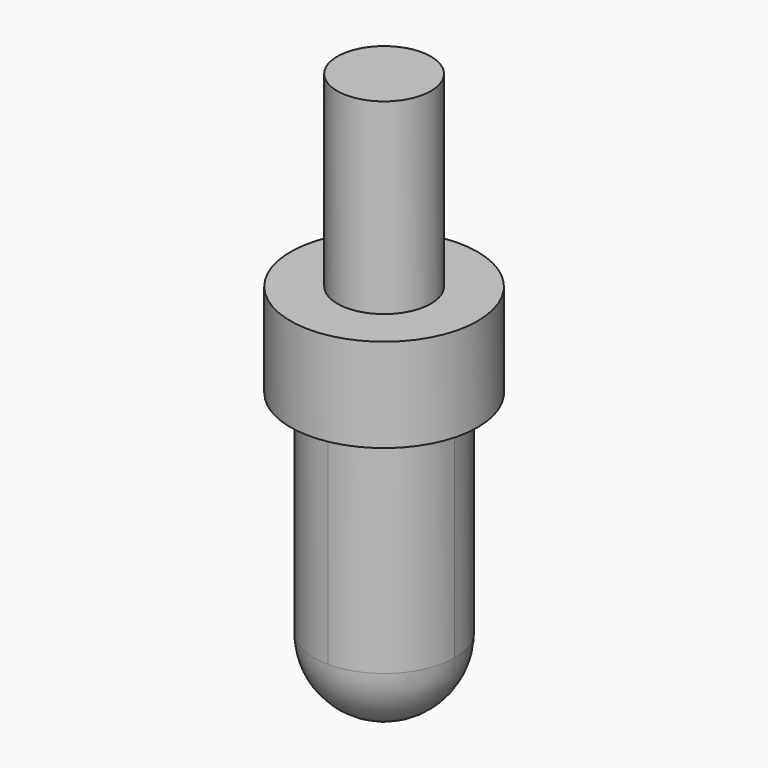
from build123d import *

# Parameters (mm, degrees)
F1_ANGLE = 180
F2_DEPTH = 2.25
F3_R     = 1
F4_DEPTH = 1
F5_R     = 0.5
F6_DEPTH = 2


with BuildPart() as f1:
    # F0 (on Top) → F1 (revolve)
    with BuildSketch(Plane.XY):
        with BuildLine():
            Line((0, -0.75), (0, 0.75))
            ThreePointArc((0, 0.75), (-0.75, 0), (0, -0.75))
        make_face()
    revolve(axis=Axis((0, 0, 0), (0, -1, 0)), revolution_arc=F1_ANGLE)

    # F0 (on Top) → F2 (join)
    with BuildSketch(Plane.XY):
        with BuildLine():
            ThreePointArc((0, -0.75), (0.53033, -0.53033), (0.75, 0))
            ThreePointArc((0.75, 0), (0.53033, 0.53033), (0, 0.75))
            Line((0, 0.75), (0, -0.75))
        make_face()
        with BuildLine():
            Line((0, -0.75), (0, 0.75))
            ThreePointArc((0, 0.75), (-0.75, 0), (0, -0.75))
        make_face()
    extrude(amount=F2_DEPTH)

    # F3 (on face) → F4 (join)
    with BuildSketch(Plane.XY.offset(2.25)):
        Circle(F3_R)
    extrude(amount=F4_DEPTH)

    # F5 (on face) → F6 (join)
    with BuildSketch(Plane.XY.offset(3.25)):
        Circle(F5_R)
    extrude(amount=F6_DEPTH)


solid = f1.part
